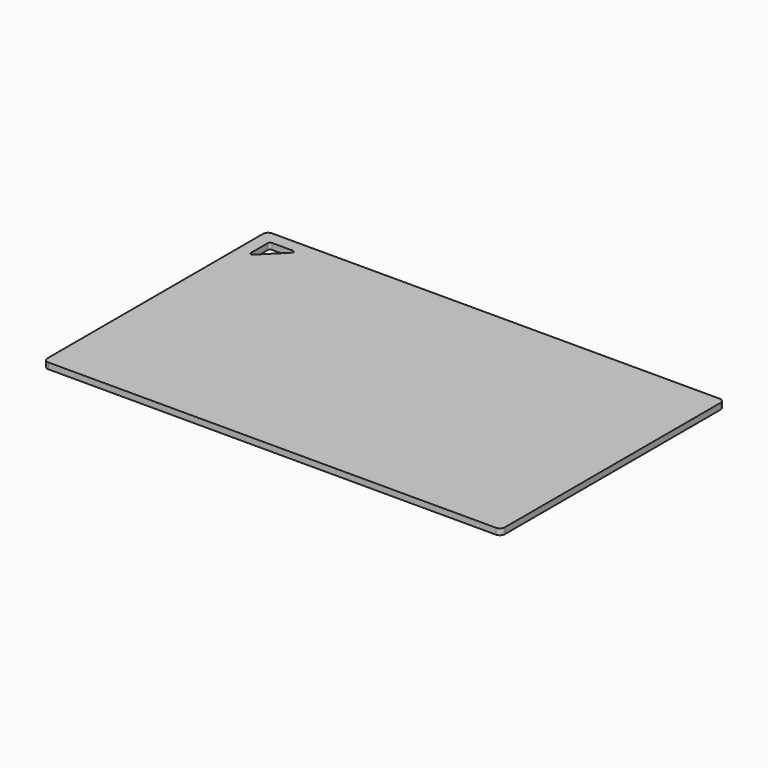
from build123d import *

# Parameters (mm, degrees)
F1_DEPTH = 1.2


with BuildPart() as f1:
    # F0 (on Top) → F1 (new body)
    with BuildSketch(Plane.XY):
        with BuildLine():
            ThreePointArc((0, 1), (0.292893, 0.292893), (1, 0))
            Line((1, 0), (89, 0))
            ThreePointArc((89, 0), (89.707107, 0.292893), (90, 1))
            Line((90, 1), (90, 54))
            ThreePointArc((90, 54), (89.707107, 54.707107), (89, 55))
            Line((89, 55), (1, 55))
            ThreePointArc((1, 55), (0.292893, 54.707107), (0, 54))
            Line((0, 54), (0, 1))
        make_face()
        with BuildLine():
            ThreePointArc((2.501273, 51.997527), (2.64772, 52.35108), (3.001273, 52.497527))
            Line((3.001273, 52.497527), (7.001273, 52.497527))
            ThreePointArc((7.001273, 52.497527), (7.354826, 52.35108), (7.501273, 51.997527))
            Line((7.501273, 51.997527), (3.001273, 47.497527))
            ThreePointArc((3.001273, 47.497527), (2.64772, 47.643973), (2.501273, 47.997527))
            Line((2.501273, 47.997527), (2.501273, 51.997527))
        make_face(mode=Mode.SUBTRACT)
    extrude(amount=F1_DEPTH)


solid = f1.part
